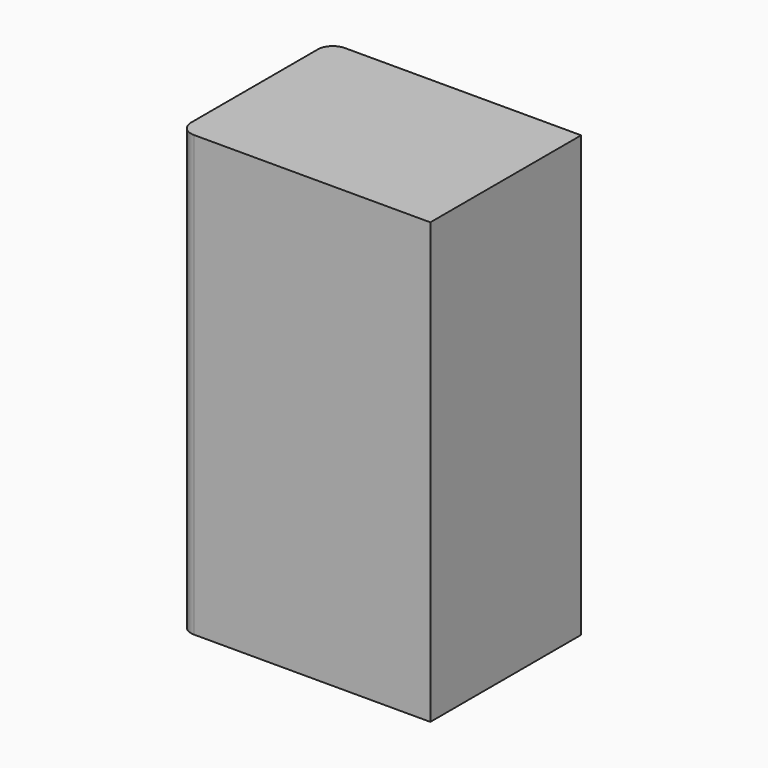
from build123d import *

# Parameters (mm, degrees)
F0_W     = 50.8
F0_H     = 38.1
F1_DEPTH = 88.9
F2_R     = 3.048
F3_T     = -2.54


with BuildPart() as f1:
    # F0 (on Top) → F1 (new body)
    with BuildSketch(Plane.XY):
        with Locations((25.4, 19.05)):
            Rectangle(F0_W, F0_H)
    extrude(amount=F1_DEPTH)

    # F2
    f2_edges = [f1.edges().sort_by_distance(p)[0] for p in [
        (0, 0, 44.45),
        (0, 38.1, 44.45),
    ]]
    fillet(f2_edges, radius=F2_R)

    # F3
    f3_openings = [f1.faces().sort_by_distance(p)[0] for p in [
        (25.451031, 19.05, 0),
    ]]
    offset(amount=F3_T, openings=f3_openings)


solid = f1.part
